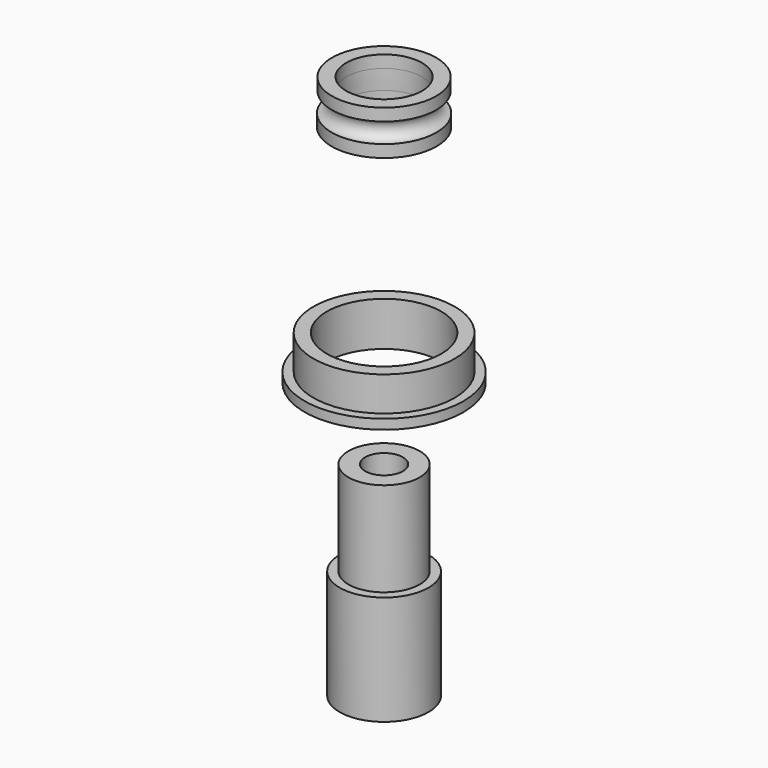
from build123d import *

# Parameters (mm, degrees)
F0_W   = 1.516
F0_H   = 3.9
F0_W_2 = 1.6
F0_H_2 = 1.389


with BuildPart() as f1:
    # F0 (on Front) → F1 (revolve)
    with BuildSketch(Plane.XZ):
        with Locations((7.242, 17.34189)):
            Rectangle(F0_W, F0_H)
        Polygon((9, 15.39189), (8, 15.39189), (6.484, 15.39189), (6.484, 14.29189), (9, 14.29189), align=None)
        Polygon((4.038654, 6.173161), (2.138654, 6.173161), (2.138654, -16.900839), (5.038654, -16.900839), (5.038654, -4.500839), (4.038654, -4.500839), align=None)
        with Locations((5.1, 44.10054)):
            Rectangle(F0_W_2, F0_H_2)
        with BuildLine():
            Line((5.9, 43.40604), (4.3, 43.40604))
            Line((4.3, 43.40604), (4.345011, 41.18404))
            Line((4.345011, 41.18404), (5.945011, 41.18404))
            ThreePointArc((5.945011, 41.18404), (4.833783, 42.272986), (5.9, 43.40604))
        make_face()
        with Locations((5.145011, 40.48954)):
            Rectangle(F0_W_2, F0_H_2)
    revolve(axis=Axis((0, 0, 5.041287), (0, 0, -1)))


solid = f1.part
